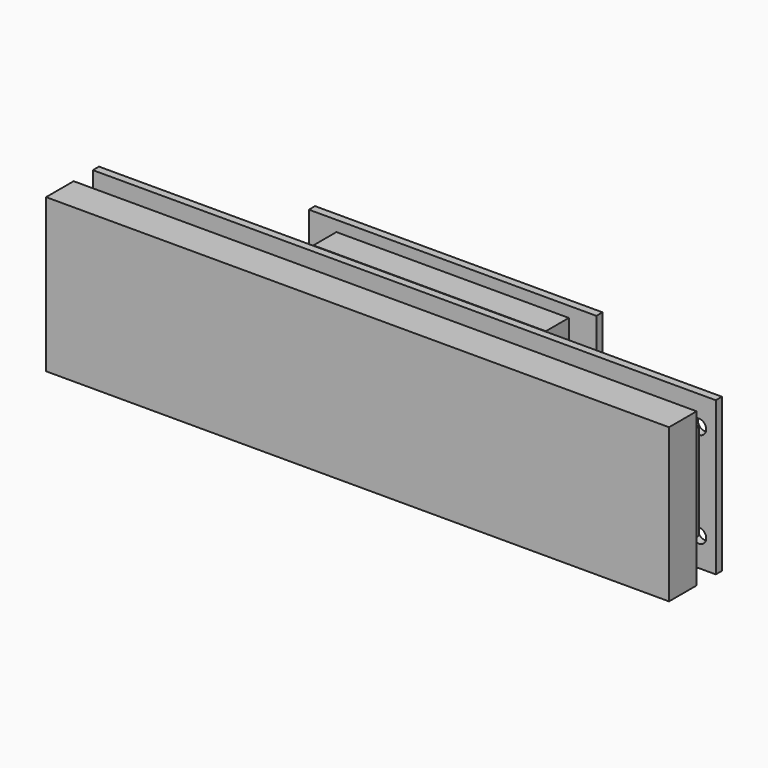
from build123d import *

# Parameters (mm, degrees)
F0_W      = 130
F0_H      = 32
F1_DEPTH  = 1.6
F2_W      = 3
F2_H      = 20
F3_DEPTH  = 5
F5_W      = 130
F5_H      = 32
F6_DEPTH  = 7.2
F7_R      = 1.5
F8_DEPTH  = 1.6
F12_DEPTH = 6
F13_R     = 1.5
F14_DEPTH = 6
F15_W     = 60
F15_H     = 30
F15_R     = 1.5
F16_DEPTH = 1.6


with BuildPart() as f1:
    # F0 (on Front) → F1 (new body)
    with BuildSketch(Plane.XZ):
        Rectangle(F0_W, F0_H)
    extrude(amount=F1_DEPTH)

    # F2 (on face) → F3 (join)
    with BuildSketch(Plane.XZ.offset(1.6)):
        Rectangle(F2_W, F2_H)
        with Locations((-60, 0)):
            Rectangle(F2_W, F2_H)
        with Locations((-30, 0)):
            Rectangle(F2_W, F2_H)
        with Locations((30, 0)):
            Rectangle(F2_W, F2_H)
        with Locations((60, 0)):
            Rectangle(F2_W, F2_H)
    extrude(amount=F3_DEPTH)

    # F5 (on offset) → F6 (join)
    with BuildSketch(Plane.XZ.offset(6.6)):
        Rectangle(F5_W, F5_H)
    extrude(amount=F6_DEPTH)

    # F7 (on face) → F8 (cut, through all)
    with BuildSketch(Plane(origin=(0, 0, 0), x_dir=(-1, 0, 0), z_dir=(0, 1, 0))):
        with Locations((61.5, 10)):
            Circle(F7_R)
        with Locations((61.5, -10)):
            Circle(F7_R)
        with Locations((-61.5, 10)):
            Circle(F7_R)
        with Locations((-61.5, -10)):
            Circle(F7_R)
    extrude(amount=-F8_DEPTH, mode=Mode.SUBTRACT)


with BuildPart() as f12:
    # F11 (on offset) → F12 (new body)
    with BuildSketch(Plane(origin=(0, 5, 0), x_dir=(-1, 0, 0), z_dir=(0, 1, 0))):
        Polygon((24.25, -12.75), (24.25, 12.75), (-24.25, 12.75), (-24.25, 4.0126102977), (-25.25, 4), (-25.25, -3.9990916737), (-24.25, -3.9973747328), (-24.25, -12.75), align=None)
        Polygon((24.25, -12.75), (24.25, 12.75), (-24.25, 12.75), (-24.25, 4.0126102977), (-25.25, 4), (-25.25, -3.9990916737), (-24.25, -3.9973747328), (-24.25, -12.75), align=None)
    extrude(amount=F12_DEPTH)

    # F13 (on face) → F14 (cut, through all)
    with BuildSketch(Plane(origin=(0, 11, 0), x_dir=(-1, 0, 0), z_dir=(0, 1, 0))):
        with Locations((-22.2, 10.7)):
            Circle(F13_R)
        with Locations((-22.2, -10.7)):
            Circle(F13_R)
        with Locations((22.2, -10.7)):
            Circle(F13_R)
        with Locations((22.2, 10.7)):
            Circle(F13_R)
    extrude(amount=-F14_DEPTH, mode=Mode.SUBTRACT)


with BuildPart() as f16:
    # F15 (on face) → F16 (new body)
    with BuildSketch(Plane(origin=(0, 11, 0), x_dir=(-1, 0, 0), z_dir=(0, 1, 0))):
        Rectangle(F15_W, F15_H)
        Polygon((-24.25, -12.75), (-24.25, -3.9973747328), (-25.25, -3.9990916737), (-25.25, 4), (-24.25, 4.0126102977), (-24.25, 12.75), (24.25, 12.75), (24.25, -12.75), align=None, mode=Mode.SUBTRACT)
        Rectangle(F15_W, F15_H)
        Polygon((-24.25, -12.75), (-24.25, -3.9973747328), (-25.25, -3.9990916737), (-25.25, 4), (-24.25, 4.0126102977), (-24.25, 12.75), (24.25, 12.75), (24.25, -12.75), align=None, mode=Mode.SUBTRACT)
        Polygon((-25.25, -3.9990916737), (-24.25, -3.9973747328), (-24.25, -12.75), (24.25, -12.75), (24.25, 12.75), (-24.25, 12.75), (-24.25, 4.0126102977), (-25.25, 4), align=None)
        with Locations((-22.2, -10.7)):
            Circle(F15_R, mode=Mode.SUBTRACT)
        with Locations((22.2, -10.7)):
            Circle(F15_R, mode=Mode.SUBTRACT)
        with Locations((-22.2, 10.7)):
            Circle(F15_R, mode=Mode.SUBTRACT)
        with Locations((22.2, 10.7)):
            Circle(F15_R, mode=Mode.SUBTRACT)
    extrude(amount=F16_DEPTH)


solid = Compound([f1.part, f12.part, f16.part])
